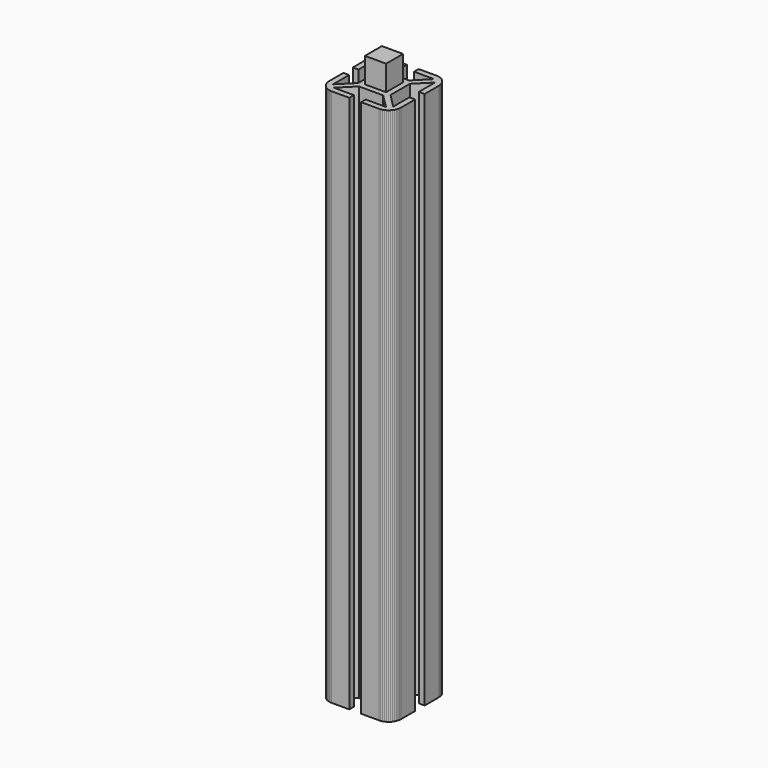
from build123d import *

# Parameters (mm, degrees)
F1_DEPTH = 150
F3_START = 150
F2_W     = 5.9
F2_H     = 5.9
F3_DEPTH = 7


with BuildPart() as f1:
    # F0 (on Top) → F1 (new body)
    with BuildSketch(Plane.XY):
        Polygon((-8.6642279688, 9.2944640897), (-9.0000005454, 9.0000005454), (-9.2944640897, 8.6642279688), (-9.5425827994, 8.2928939011), (-9.740108966, 7.8923494527), (-9.8836638753, 7.4694502231), (-9.9707914372, 7.0314308605), (-10, 6.5857868932), (-10, 1.6499997364), (-8.4000001454, 1.6499997364), (-8.4000001454, 7.2686289692), (-4.5000002727, 3.3686290964), (-4.5000002727, -3.3686290964), (-8.4000001454, -7.2686289692), (-8.4000001454, -1.6499997364), (-10, -1.6499997364), (-10, -6.5857868932), (-9.9707914372, -7.0314308605), (-9.8836638753, -7.4694502231), (-9.740108966, -7.8923494527), (-9.5425827994, -8.2928939011), (-9.2944640897, -8.6642279688), (-9.0000005454, -9.0000005454), (-8.6642279688, -9.2944640897), (-8.2928939011, -9.5425827994), (-7.8923494527, -9.740108966), (-7.4694502231, -9.8836638753), (-7.0314308605, -9.9707914372), (-6.5857868932, -10), (-1.6499997364, -10), (-1.6499997364, -8.4000001454), (-7.2686289692, -8.4000001454), (-3.3686290964, -4.5000002727), (3.3686290964, -4.5000002727), (7.2686289692, -8.4000001454), (1.6499997364, -8.4000001454), (1.6499997364, -10), (6.5857868932, -10), (7.0314308605, -9.9707914372), (7.4694502231, -9.8836638753), (7.8923494527, -9.740108966), (8.2928939011, -9.5425827994), (8.6642279688, -9.2944640897), (9.0000005454, -9.0000005454), (9.2944640897, -8.6642279688), (9.5425827994, -8.2928939011), (9.740108966, -7.8923494527), (9.8836638753, -7.4694502231), (9.9707914372, -7.0314308605), (10, -6.5857868932), (10, -1.6499997364), (8.4000001454, -1.6499997364), (8.4000001454, -7.2686289692), (4.5000002727, -3.3686290964), (4.5000002727, 3.3686290964), (8.4000001454, 7.2686289692), (8.4000001454, 1.6499997364), (10, 1.6499997364), (10, 6.5857868932), (9.9707914372, 7.0314308605), (9.8836638753, 7.4694502231), (9.740108966, 7.8923494527), (9.5425827994, 8.2928939011), (9.2944640897, 8.6642279688), (9.0000005454, 9.0000005454), (8.6642279688, 9.2944640897), (8.2928939011, 9.5425827994), (7.8923494527, 9.740108966), (7.4694502231, 9.8836638753), (7.0314308605, 9.9707914372), (6.5857868932, 10), (1.6499997364, 10), (1.6499997364, 8.4000001454), (7.2686289692, 8.4000001454), (3.3686290964, 4.5000002727), (-3.3686290964, 4.5000002727), (-7.2686289692, 8.4000001454), (-1.6499997364, 8.4000001454), (-1.6499997364, 10), (-6.5857868932, 10), (-7.0314308605, 9.9707914372), (-7.4694502231, 9.8836638753), (-7.8923494527, 9.740108966), (-8.2928939011, 9.5425827994), align=None)
    extrude(amount=F1_DEPTH)

    # F2 (on Top) → F3 (join)
    with BuildSketch(Plane.XY.offset(F3_START)):
        Rectangle(F2_W, F2_H)
    extrude(amount=F3_DEPTH)


solid = f1.part
